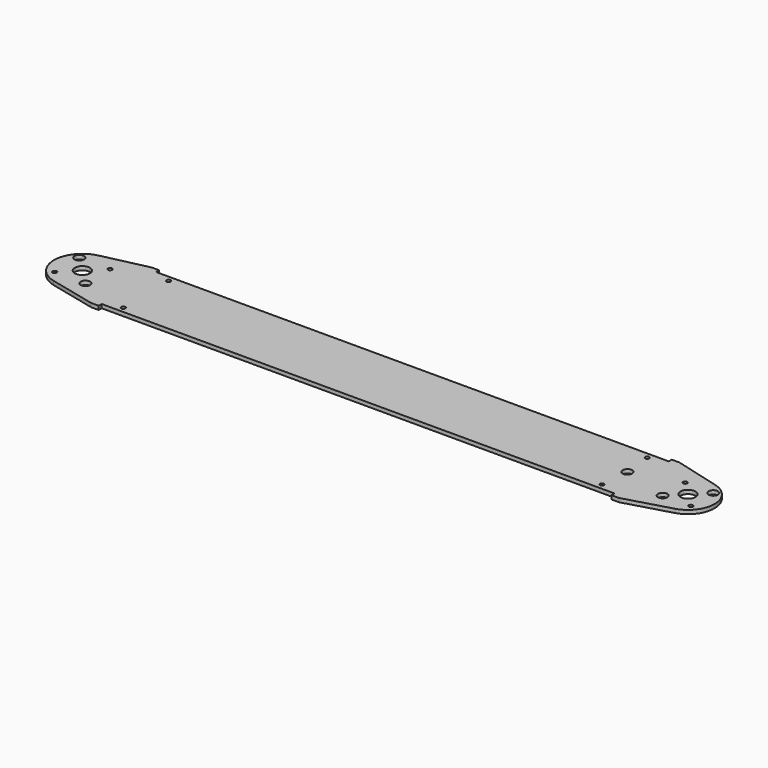
from build123d import *

# Parameters (mm, degrees)
F0_R     = 1.7272
F0_R_2   = 3.96875
F0_R_3   = 6.35
F1_DEPTH = 3.175


with BuildPart() as f1:
    # F0 (on Top) → F1 (new body)
    with BuildSketch(Plane.XY):
        with BuildLine():
            Line((-475.378193, 31.75), (-513.228467, 23.231407))
            ThreePointArc((-513.228467, 23.231407), (-531.812151, 0.128904), (-513.479674, -23.17344))
            Line((-513.479674, -23.17344), (-474.818103, -32.315493))
            Line((-474.818103, -32.315493), (-468.468103, -32.315493))
            Line((-468.468103, -32.315493), (-468.468103, -29.140493))
            Line((-468.468103, -29.140493), (-38.411718, -29.140493))
            Line((-38.411718, -29.140493), (-38.411718, -32.315493))
            Line((-38.411718, -32.315493), (-32.061718, -32.315493))
            Line((-32.061718, -32.315493), (6.126706, -21.36385))
            ThreePointArc((6.126706, -21.36385), (22.224151, 0.194294), (5.752253, 21.467701))
            Line((5.752253, 21.467701), (-32.621807, 31.75))
            Line((-32.621807, 31.75), (-38.971807, 31.75))
            Line((-38.971807, 31.75), (-38.971807, 28.575))
            Line((-38.971807, 28.575), (-469.028193, 28.575))
            Line((-469.028193, 28.575), (-469.028193, 31.75))
            Line((-469.028193, 31.75), (-475.378193, 31.75))
        make_face()
        with Locations((-454.180603, -24.377993)):
            Circle(F0_R, mode=Mode.SUBTRACT)
        with Locations((-520.909118, -12.909118)):
            Circle(F0_R, mode=Mode.SUBTRACT)
        with Locations((-495.090882, -12.909118)):
            Circle(F0_R_2, mode=Mode.SUBTRACT)
        with Locations((-52.699218, -24.377993)):
            Circle(F0_R, mode=Mode.SUBTRACT)
        with Locations((-11.786586, -11.786586)):
            Circle(F0_R_2, mode=Mode.SUBTRACT)
        with Locations((11.786586, -11.786586)):
            Circle(F0_R, mode=Mode.SUBTRACT)
        with Locations((-508, 0)):
            Circle(F0_R_3, mode=Mode.SUBTRACT)
        with Locations((-520.909118, 12.909118)):
            Circle(F0_R_2, mode=Mode.SUBTRACT)
        with Locations((-495.090882, 12.909118)):
            Circle(F0_R, mode=Mode.SUBTRACT)
        with Locations((-454.740693, 23.8125)):
            Circle(F0_R, mode=Mode.SUBTRACT)
        with Locations((-50.8, 0)):
            Circle(F0_R_2, mode=Mode.SUBTRACT)
        Circle(F0_R_3, mode=Mode.SUBTRACT)
        with Locations((-11.786586, 11.786586)):
            Circle(F0_R, mode=Mode.SUBTRACT)
        with Locations((11.786586, 11.786586)):
            Circle(F0_R_2, mode=Mode.SUBTRACT)
        with Locations((-53.259307, 23.8125)):
            Circle(F0_R, mode=Mode.SUBTRACT)
    extrude(amount=F1_DEPTH)


solid = f1.part
